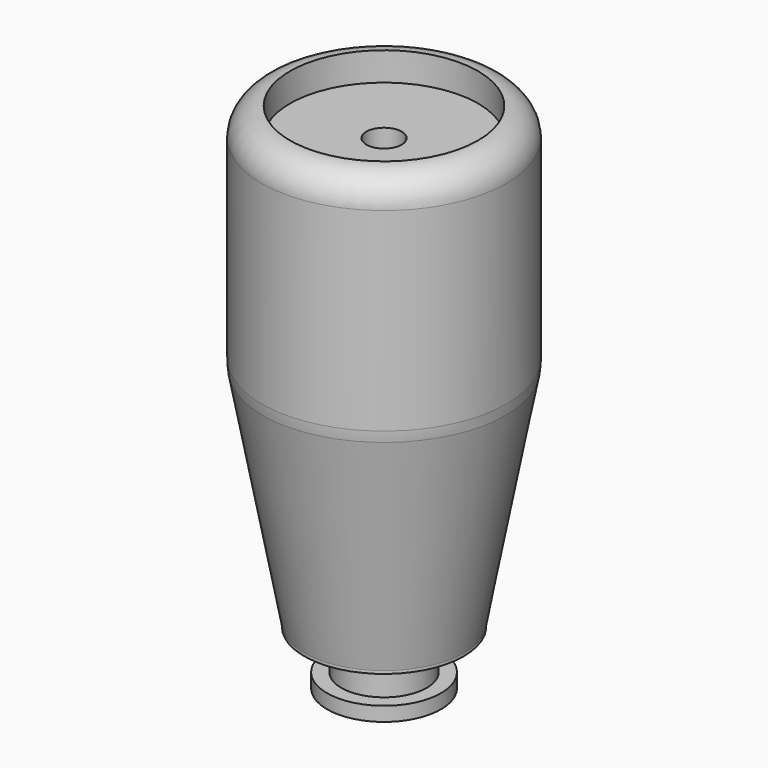
from build123d import *

# Parameters (mm, degrees)
F0_R      = 21.5
F1_DEPTH  = 40
F2_R      = 5
F3_R      = 21.5
F4_DEPTH  = 40
F5_SIZE2  = 7.5
F5_SIZE   = 40
F6_DEPTH  = 10
F7_R      = 10
F10_R     = 4.9
F11_DEPTH = 75
F12_R     = 16.5
F13_DEPTH = 5
F14_R     = 3.1
F15_DEPTH = 85.001


with BuildPart() as f1:
    # F0 (on Top) → F1 (new body)
    with BuildSketch(Plane.XY):
        Circle(F0_R)
    extrude(amount=F1_DEPTH)

    # F2
    f2_edges = [f1.edges().sort_by_distance(p)[0] for p in [
        (-21.5, 0, 40),
    ]]
    fillet(f2_edges, radius=F2_R)

    # F3 (on face) → F4 (join)
    with BuildSketch(Plane(origin=(0, 0, 0), x_dir=(1, 0, 0), z_dir=(0, 0, -1))):
        Circle(F3_R)
    extrude(amount=F4_DEPTH)

    # F5
    f5_edges = [f1.edges().sort_by_distance(p)[0] for p in [
        (-21.5, 0, -40),
    ]]
    chamfer(f5_edges, length=F5_SIZE, length2=F5_SIZE2)

    # F6 (add): a face of the model
    f6_faces = [f1.faces().sort_by_distance(p)[0] for p in [
        (0, 0, -40),
    ]]
    extrude(f6_faces, amount=F6_DEPTH)

    # F7
    f7_edges = [f1.edges().sort_by_distance(p)[0] for p in [
        (-21.5, 0, 0),
    ]]
    fillet(f7_edges, radius=F7_R)

    # F8 (on Right) → F9 (revolve, cut)
    with BuildSketch(Plane.YZ):
        Polygon((-7.5, -40.5), (-17.4298945979, -40.5), (-17.4298945979, -47.5), (-17.4298945979, -53.659953177), (-10, -53.659953177), (-10, -47.5), (-7.5, -47.5), align=None)
    revolve(axis=Axis((0, 0, -53.4000843763), (0, 0, -1)), mode=Mode.SUBTRACT)

    # F10 (on face) → F11 (cut)
    with BuildSketch(Plane(origin=(0, 0, -50), x_dir=(1, 0, 0), z_dir=(0, 0, -1))):
        Circle(F10_R)
    extrude(amount=-F11_DEPTH, mode=Mode.SUBTRACT)

    # F12 (on face) → F13 (cut)
    with BuildSketch(Plane.XY.offset(40)):
        Circle(F12_R)
    extrude(amount=-F13_DEPTH, mode=Mode.SUBTRACT)

    # F14 (on face) → F15 (cut, through all)
    with BuildSketch(Plane.XY.offset(35)):
        Circle(F14_R)
    extrude(amount=-F15_DEPTH, mode=Mode.SUBTRACT)


solid = f1.part
